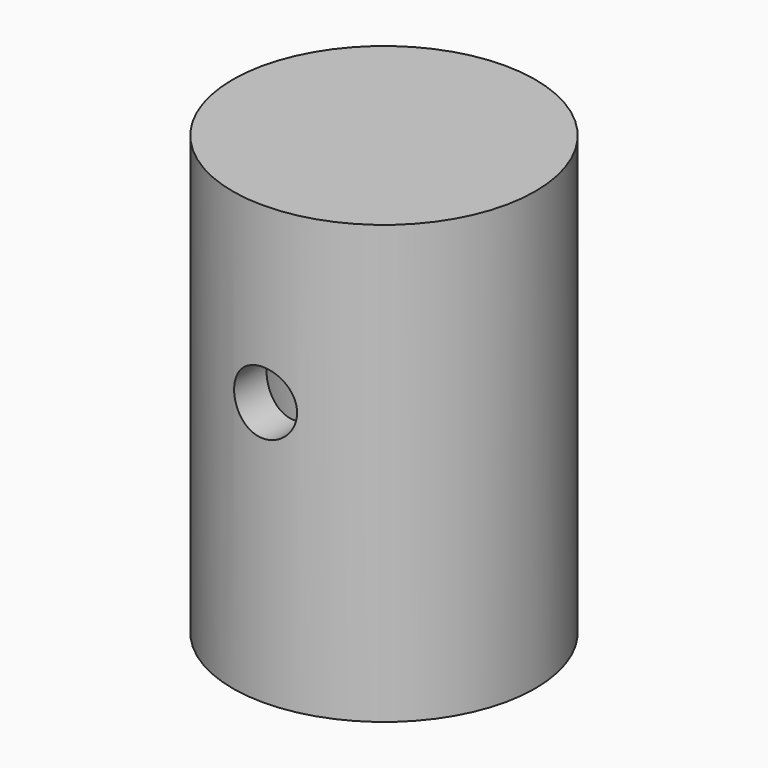
from build123d import *

# Parameters (mm, degrees)
F0_R          = 29.3309291426
F1_DEPTH      = 84.836
F2_T          = -7.62
F3_R          = 6.1041032484
F4_DEPTH      = 29.3319291426
F4_DEPTH_BACK = 29.3319291426


with BuildPart() as f1:
    # F0 (on Top) → F1 (new body)
    with BuildSketch(Plane.XY):
        Circle(F0_R)
    extrude(amount=F1_DEPTH)

    # F2
    f2_openings = [f1.faces().sort_by_distance(p)[0] for p in [
        (0, 0, 0),
    ]]
    offset(amount=F2_T, openings=f2_openings)

    # F3 (on Front) → F4 (cut, two sides)
    with BuildSketch(Plane.XZ) as f4_sk:
        with Locations((0, 51.1526353657)):
            Circle(F3_R)
    extrude(amount=-F4_DEPTH, mode=Mode.SUBTRACT)
    extrude(f4_sk.sketch, amount=F4_DEPTH_BACK, mode=Mode.SUBTRACT)


solid = f1.part
